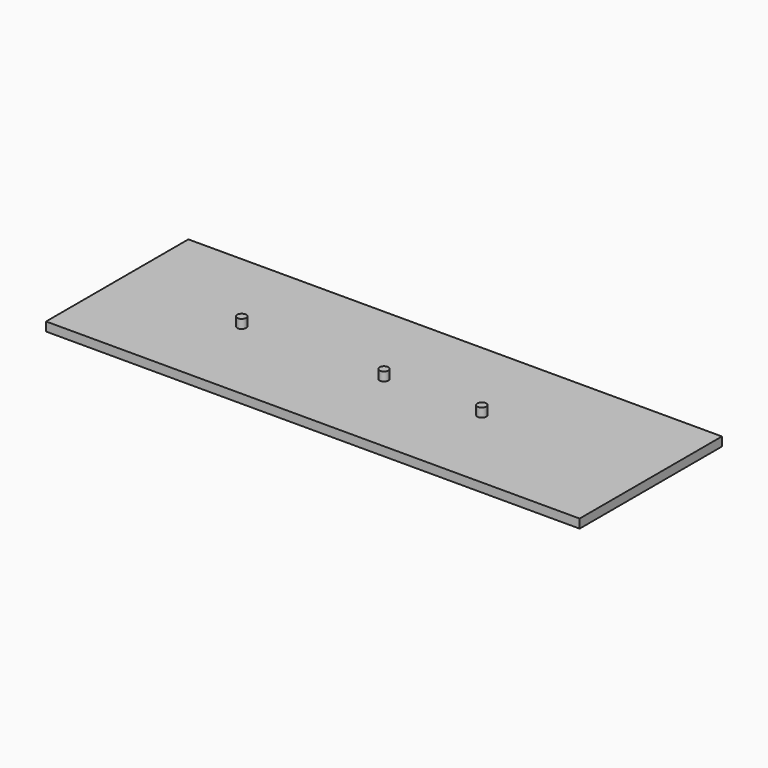
from build123d import *

# Parameters (mm, degrees)
F0_W     = 300
F0_H     = 100
F1_DEPTH = 5
F2_R     = 2.5
F3_DEPTH = 5
F4_DEPTH = 5


with BuildPart() as f1:
    # F0 (on Top) → F1 (new body)
    with BuildSketch(Plane.XY):
        Rectangle(F0_W, F0_H)
    extrude(amount=F1_DEPTH)

    # F2 (on face) → F3 (join)
    with BuildSketch(Plane.XY.offset(5)):
        Circle(F2_R)
        with Locations((-80, 0)):
            Circle(F2_R)
    extrude(amount=F3_DEPTH)

    # F2 (on face) → F4 (join)
    with BuildSketch(Plane.XY.offset(5)):
        Circle(F2_R)
        with Locations((-80, 0)):
            Circle(F2_R)
        with Locations((55, 0)):
            Circle(F2_R)
    extrude(amount=F4_DEPTH)


solid = f1.part
